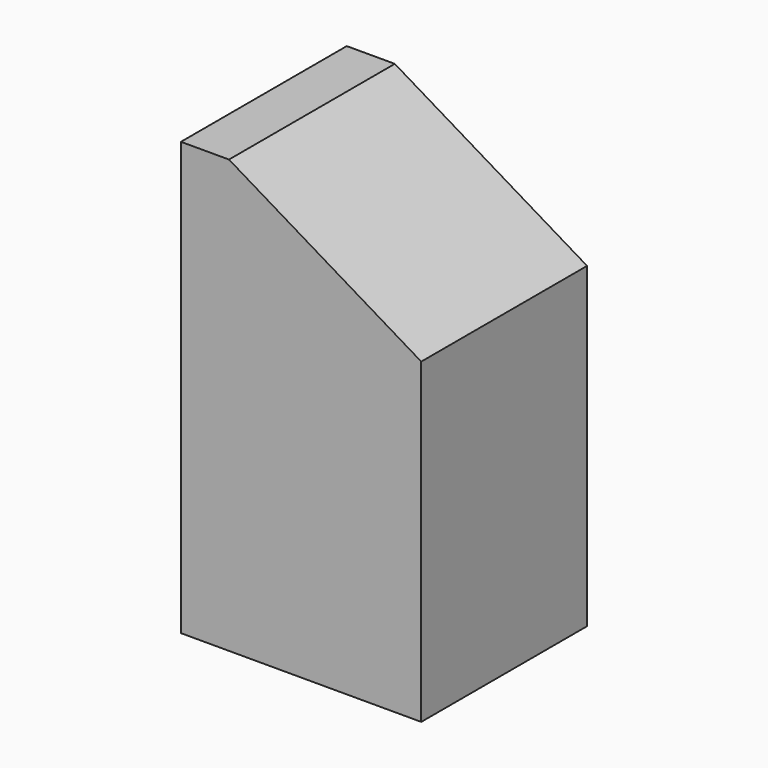
from build123d import *

# Parameters (mm, degrees)
SKETCH006_W     = 16
SKETCH006_H     = 15.8
PAD005_DEPTH    = 28.8
POCKET001_DEPTH = 16
PAD128_DEPTH    = 15.8
SKETCH185_W     = 16
SKETCH185_H     = 2
POCKET067_DEPTH = 30


with BuildPart() as part:
    # Sketch006 (on Face72 of Binder001) → Pad005 (new body)
    with BuildSketch(Plane.XY.offset(-28.8)):
        with Locations((135.8, 127.9)):
            Rectangle(SKETCH006_W, SKETCH006_H)
    extrude(amount=PAD005_DEPTH)

    # Sketch007 (on Face3 of Pad005) → Pocket001 (cut)
    with BuildSketch(Plane.XZ.offset(-120)):
        Polygon((127.8, 0), (143.8, -9.6), (143.8, 0), align=None)
    extrude(amount=-POCKET001_DEPTH, mode=Mode.SUBTRACT)

    # Sketch128 (on Face1 of Pocket001) → Pad128 (join)
    with BuildSketch(Plane(origin=(0, 135.8, 0), x_dir=(-1, 0, 0), z_dir=(0, 1, 0))):
        Polygon((-127.8, 0), (-131, 0), (-143.8, -7.68), (-143.8, -10.88), (-131, -3.2), (-127.8, -3.2), align=None)
    extrude(amount=-PAD128_DEPTH)

    # Sketch185 (on Face1 of Pad128) → Pocket067 (cut)
    with BuildSketch(Plane(origin=(0, 0, -28.8), x_dir=(1, 0, 0), z_dir=(0, 0, -1))):
        with Locations((135.8, -121)):
            Rectangle(SKETCH185_W, SKETCH185_H)
    extrude(amount=-POCKET067_DEPTH, mode=Mode.SUBTRACT)


solid = part.part
